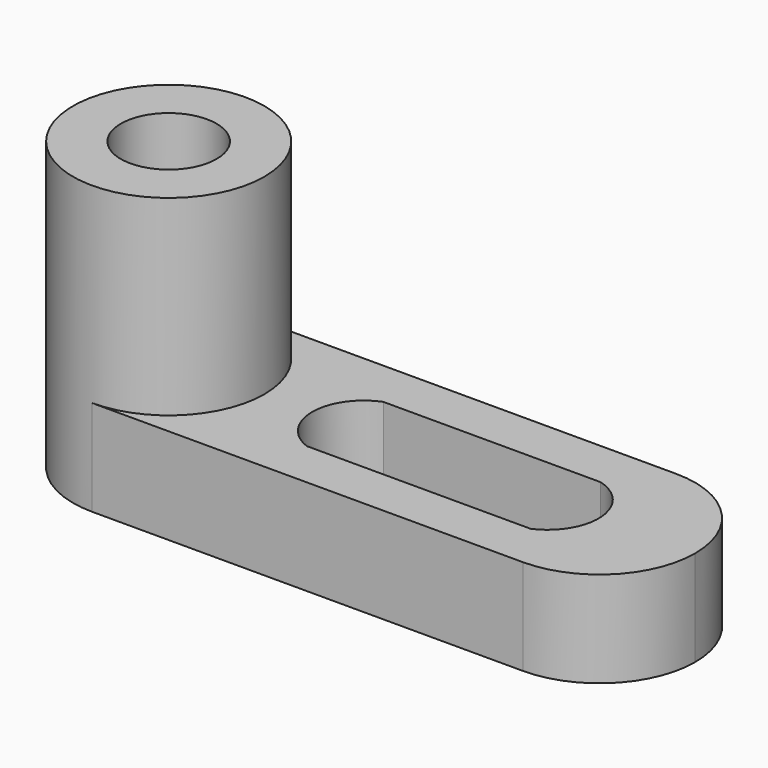
from build123d import *

# Parameters (mm, degrees)
F0_W      = 82.55
F0_H      = 38.1
F1_DEPTH  = 25.4
F2_W      = 57.15
F2_H      = 25.4
F3_DEPTH  = 25.4
F5_DEPTH  = 25.4
F7_DEPTH  = 25.4
F8_W      = 25.4
F8_H      = 25.4
F9_DEPTH  = 25.4
F10_R     = 12.7
F11_DEPTH = 25.4
F12_R     = 6.35
F13_DEPTH = 38.1
F14_DEPTH = 25.4


with BuildPart() as f1:
    # F0 (on Front) → F1 (new body)
    with BuildSketch(Plane.XZ):
        with Locations((5.1815754888, 19.05)):
            Rectangle(F0_W, F0_H)
    extrude(amount=-F1_DEPTH)

    # F2 (on Front) → F3 (cut)
    with BuildSketch(Plane.XZ):
        with Locations((17.8815754888, 25.4)):
            Rectangle(F2_W, F2_H)
    extrude(amount=-F3_DEPTH, mode=Mode.SUBTRACT)

    # F4 (on Top) → F5 (cut)
    with BuildSketch(Plane.XY):
        with BuildLine():
            ThreePointArc((33.7565754888, 25.4), (42.7368316099, 21.6802561211), (46.4565754888, 12.7))
            Line((46.4565754888, 12.7), (46.4565754888, 25.4))
            Line((46.4565754888, 25.4), (33.7565754888, 25.4))
        make_face()
        with BuildLine():
            ThreePointArc((46.4565754888, 12.7), (42.7368316099, 3.7197438789), (33.7565754888, 0))
            Line((33.7565754888, 0), (46.4565754888, 0))
            Line((46.4565754888, 0), (46.4565754888, 12.7))
        make_face()
    extrude(amount=F5_DEPTH, mode=Mode.SUBTRACT)

    # F6 (on Top) → F7 (cut)
    with BuildSketch(Plane.XY):
        with BuildLine():
            Line((28.8184100731, 19.05), (0, 19.05))
            ThreePointArc((0, 19.05), (-4.3434245112, 12.7), (0, 6.35))
            Line((0, 6.35), (29.70539537, 6.35))
            ThreePointArc((29.70539537, 6.35), (33.7396442751, 13.0127315686), (28.8184100731, 19.05))
        make_face()
    extrude(amount=F7_DEPTH, mode=Mode.SUBTRACT)

    # F8 (on face) → F9 (cut)
    with BuildSketch(Plane.XZ):
        with Locations((-23.3934245112, 25.4)):
            Rectangle(F8_W, F8_H)
    extrude(amount=-F9_DEPTH, mode=Mode.SUBTRACT)

    # F10 (on face) → F11 (join)
    with BuildSketch(Plane.XY.offset(12.7)):
        with Locations((-23.3934245112, 12.7)):
            Circle(F10_R)
    extrude(amount=F11_DEPTH)

    # F12 (on Top) → F13 (cut)
    with BuildSketch(Plane.XY):
        with Locations((-23.3934245112, 12.7)):
            Circle(F12_R)
    extrude(amount=F13_DEPTH, mode=Mode.SUBTRACT)

    # F14 (cut): faces of the model
    f14_faces = [f1.faces().sort_by_distance(p)[0] for p in [
        (-33.2566516865, 22.5632271754, 12.7),
        (-33.2566516865, 2.8367728246, 12.7),
    ]]
    extrude(f14_faces, amount=-F14_DEPTH, mode=Mode.SUBTRACT)


solid = f1.part
